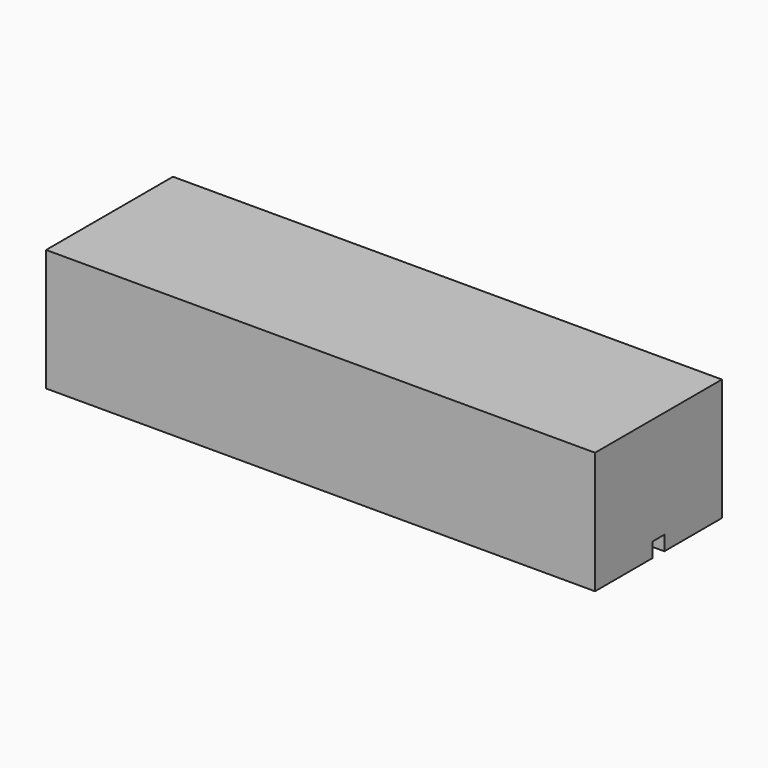
from build123d import *

# Parameters (mm, degrees)
F0_W     = 225
F0_H     = 65
F1_DEPTH = 50
F2_R     = 9.5
F3_DEPTH = 52
F4_W     = 6
F4_H     = 6
F5_DEPTH = 325


with BuildPart() as f1:
    # F0 (on Top) → F1 (new body)
    with BuildSketch(Plane.XY):
        Rectangle(F0_W, F0_H)
    extrude(amount=F1_DEPTH)

    # F2 (on face) → F3 (cut)
    with BuildSketch(Plane(origin=(-112.5, 0, 0), x_dir=(0, -1, 0), z_dir=(-1, 0, 0))):
        with Locations((0, 29)):
            Circle(F2_R)
    extrude(amount=-F3_DEPTH, mode=Mode.SUBTRACT)

    # F4 (on face) → F5 (cut)
    with BuildSketch(Plane(origin=(-112.5, 0, 0), x_dir=(0, -1, 0), z_dir=(-1, 0, 0))):
        with Locations((0, 3)):
            Rectangle(F4_W, F4_H)
    extrude(amount=-F5_DEPTH, mode=Mode.SUBTRACT)


solid = f1.part
